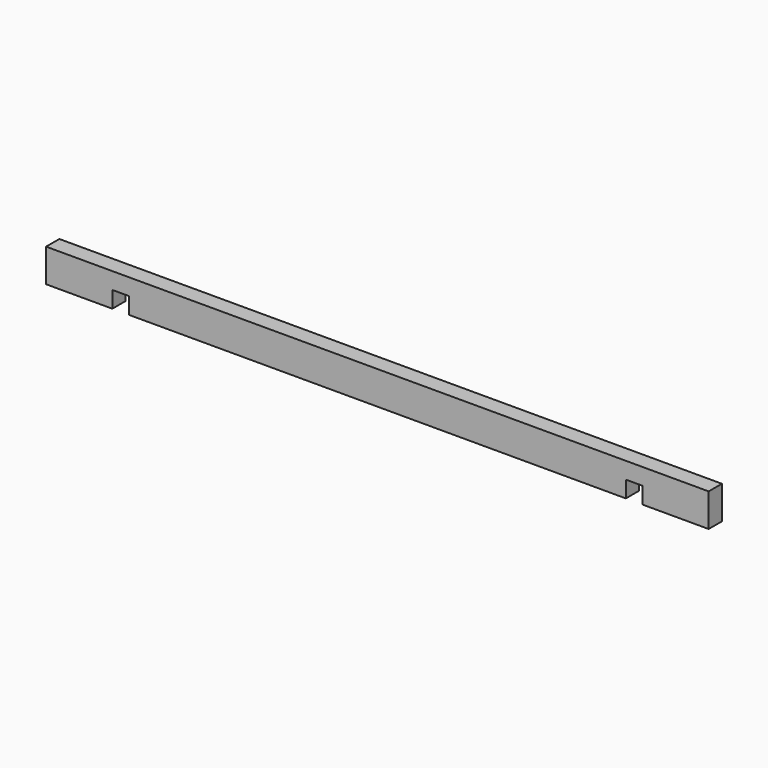
from build123d import *

# Parameters (mm, degrees)
F0_W     = 50
F0_H     = 100
F1_DEPTH = 2000
F3_ANGLE = -90
F8_W     = 50
F8_H     = 50
F9_DEPTH = 50.001


with BuildPart() as f1:
    # F0 (on Right) → F1 (new body)
    with BuildSketch(Plane.YZ):
        Rectangle(F0_W, F0_H)
    extrude(amount=F1_DEPTH)

    # F8 (on face) → F9 (cut, through all)
    with BuildSketch(Plane.XZ.offset(25)):
        with Locations((225, -25)):
            Rectangle(F8_W, F8_H)
        with Locations((1775, -25)):
            Rectangle(F8_W, F8_H)
    extrude(amount=-F9_DEPTH, mode=Mode.SUBTRACT)


with BuildPart() as f2_1:
    # F2: copy of F1
    add(f1.part.moved(Location((0, 2000, 0))))


with BuildPart() as f3_1:
    # F3: copy of F1
    add(f1.part.rotate(Axis((0, -25, 0), (0, 0, 1)), F3_ANGLE))


with BuildPart() as f5_1:
    # F5: copy of F1
    add(f1.part)


solid = f1.part
